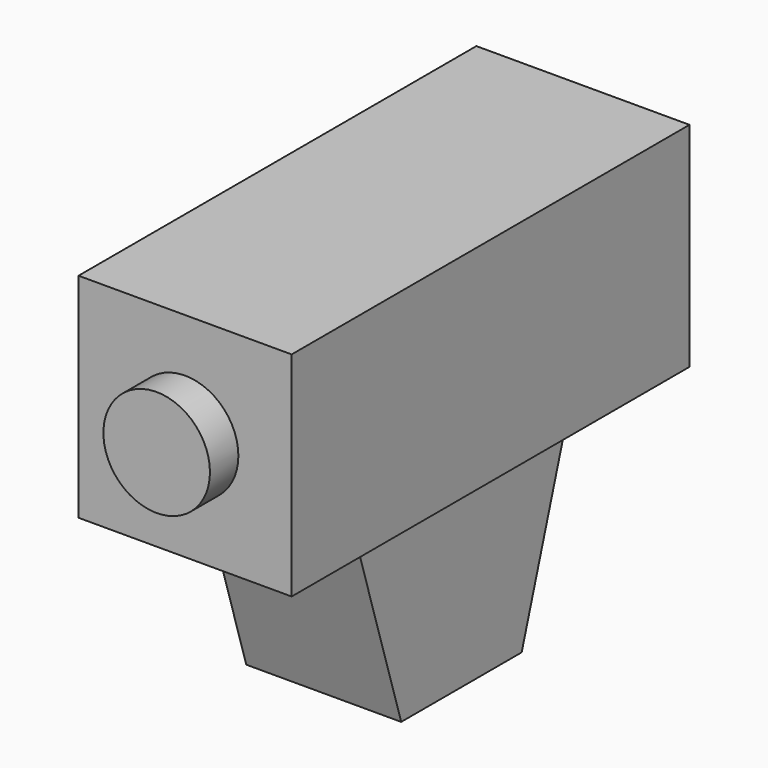
from build123d import *

# Parameters (mm, degrees)
F1_DEPTH = 300
F2_R     = 75
F3_DEPTH = 50
F4_W     = 218
F4_H     = 371.600151062
F5_DEPTH = 10
F7_DEPTH = 218
F8_R     = 75
F9_DEPTH = 50


with BuildPart() as f1:
    # F0 (on Right) → F1 (new body)
    with BuildSketch(Plane.YZ):
        Polygon((350, 75), (350, 150), (-350, 150), (-350, -150), (350, -150), (350, 0), align=None)
    extrude(amount=F1_DEPTH)

    # F2 (on face) → F3 (join)
    with BuildSketch(Plane(origin=(0, 350, 0), x_dir=(-1, 0, 0), z_dir=(0, 1, 0))):
        with Locations((-150, 0)):
            Circle(F2_R)
    extrude(amount=F3_DEPTH)

    # F4 (on face) → F5 (join)
    with BuildSketch(Plane(origin=(0, 0, -150), x_dir=(1, 0, 0), z_dir=(0, 0, -1))):
        with Locations((150, 0)):
            Rectangle(F4_W, F4_H)
    extrude(amount=F5_DEPTH)

    # F6 (on face) → F7 (join)
    with BuildSketch(Plane(origin=(41, 0, 0), x_dir=(0, -1, 0), z_dir=(-1, 0, 0))):
        Polygon((185.800075531, -160), (-185.800075531, -160), (-106, -417.9378761354), (106, -417.9378761354), align=None)
    extrude(amount=-F7_DEPTH)

    # F8 (on face) → F9 (join)
    with BuildSketch(Plane.XZ.offset(350)):
        with Locations((150, 0)):
            Circle(F8_R)
    extrude(amount=F9_DEPTH)


solid = f1.part
